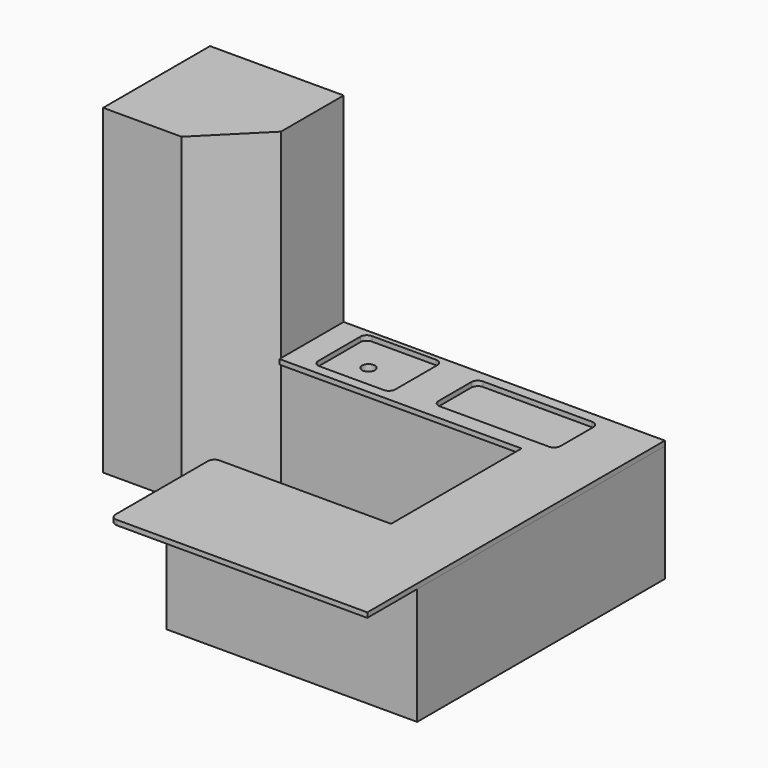
from build123d import *

# Parameters (mm, degrees)
F0_W      = 1040
F0_H      = 1040
F1_DEPTH  = 2500
F2_SIZE   = 430
F3_W      = 610
F3_H      = 910
F4_DEPTH  = 2500
F5_W      = 600
F5_H      = 910
F6_DEPTH  = 1800
F7_W      = 500
F7_H      = 910
F8_DEPTH  = 1400
F10_DEPTH = 38
F11_R     = 50
F12_W     = 500
F12_H     = 910
F13_DEPTH = 50
F14_R     = 50
F15_DEPTH = 409
F16_W     = 600
F16_H     = 510
F17_DEPTH = 38
F18_R     = 50
F19_W     = 950
F19_H     = 420
F20_DEPTH = 38
F21_R     = 50


with BuildPart() as f1:
    # F0 (on Top) → F1 (new body)
    with BuildSketch(Plane.XY):
        with Locations((-104.700291, 50.763791)):
            Rectangle(F0_W, F0_H)
    extrude(amount=F1_DEPTH)

    # F2
    f2_edges = [f1.edges().sort_by_distance(p)[0] for p in [
        (415.299709, -469.236209, 1250),
    ]]
    chamfer(f2_edges, length=F2_SIZE)

    # F3 (on face) → F4 (join)
    with BuildSketch(Plane.YZ.offset(415.299709)):
        with Locations((265.763791, 455)):
            Rectangle(F3_W, F3_H)
    extrude(amount=F4_DEPTH)

    # F5 (on face) → F6 (join)
    with BuildSketch(Plane.XZ.offset(39.236209)):
        with Locations((2615.299709, 455)):
            Rectangle(F5_W, F5_H)
    extrude(amount=F6_DEPTH)

    # F7 (on face) → F8 (join)
    with BuildSketch(Plane(origin=(2315.299709, 0, 0), x_dir=(0, -1, 0), z_dir=(-1, 0, 0))):
        with Locations((1589.236209, 455)):
            Rectangle(F7_W, F7_H)
    extrude(amount=F8_DEPTH)

    # F12 (on face) → F13 (cut)
    with BuildSketch(Plane(origin=(915.299709, 0, 0), x_dir=(0, -1, 0), z_dir=(-1, 0, 0))):
        with Locations((1589.236209, 455)):
            Rectangle(F12_W, F12_H)
    extrude(amount=-F13_DEPTH, mode=Mode.SUBTRACT)

    # F14 (on face) → F15 (cut)
    with BuildSketch(Plane.XY.offset(910)):
        with Locations((865.299709, 250)):
            Circle(F14_R)
    extrude(amount=-F15_DEPTH, mode=Mode.SUBTRACT)


with BuildPart() as f10:
    # F9 (on face) → F10 (new body)
    with BuildSketch(Plane.XY.offset(910)):
        Polygon((2915.299709, -2324.236209), (2915.299709, -1839.236209), (2915.299709, 570.763791), (415.299709, 570.763791), (415.299709, -54.236209), (2300.299709, -54.236209), (2300.299709, -1324.236209), (915.299709, -1324.236209), (915.299709, -1339.236209), (915.299709, -2324.236209), align=None)
    extrude(amount=F10_DEPTH)

    # F11
    f11_edges = [f10.edges().sort_by_distance(p)[0] for p in [
        (915.299709, -1324.236209, 929),
        (915.299709, -2324.236209, 929),
    ]]
    fillet(f11_edges, radius=F11_R)

    # F16 (on face) → F17 (cut)
    with BuildSketch(Plane.XY.offset(948)):
        with Locations((915.299709, 278.263791)):
            Rectangle(F16_W, F16_H)
    extrude(amount=-F17_DEPTH, mode=Mode.SUBTRACT)

    # F18
    f18_edges = [f10.edges().sort_by_distance(p)[0] for p in [
        (615.299709, 533.263791, 929),
        (615.299709, 23.263791, 929),
        (1215.299709, 23.263791, 929),
        (1215.299709, 533.263791, 929),
    ]]
    fillet(f18_edges, radius=F18_R)

    # F19 (on face) → F20 (cut)
    with BuildSketch(Plane.XY.offset(948)):
        with Locations((1990.299709, 278.263791)):
            Rectangle(F19_W, F19_H)
    extrude(amount=-F20_DEPTH, mode=Mode.SUBTRACT)

    # F21
    f21_edges = [f10.edges().sort_by_distance(p)[0] for p in [
        (1515.299709, 488.263791, 929),
        (2465.299709, 488.263791, 929),
        (1515.299709, 68.263791, 929),
        (2465.299709, 68.263791, 929),
    ]]
    fillet(f21_edges, radius=F21_R)


solid = Compound([f1.part, f10.part])
